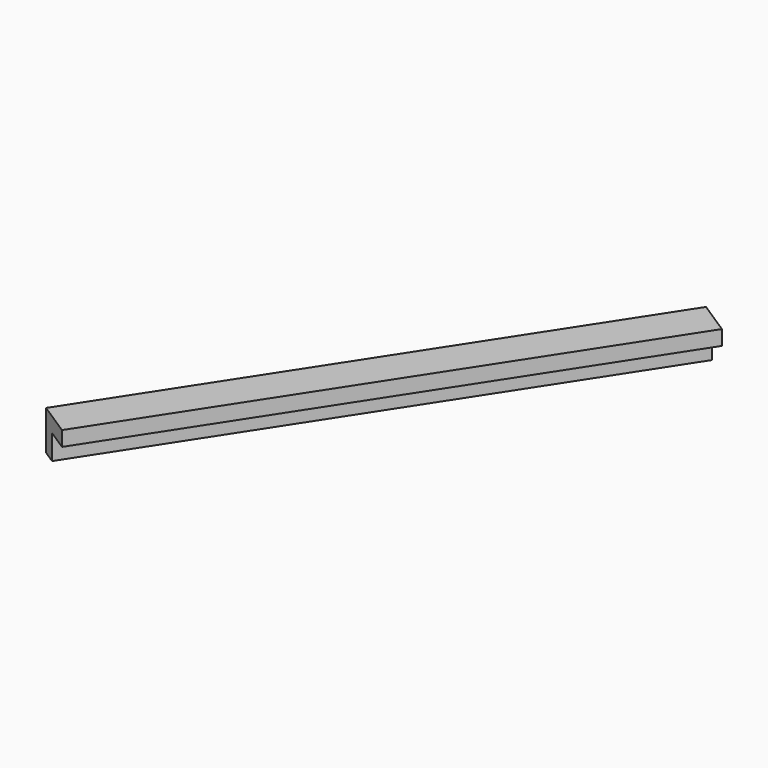
from build123d import *

# Parameters (mm, degrees)
BOX191_W               = 0.8
BOX191_H               = 11
BOX191_DEPTH           = 0.8
BOX192_W               = 0.8
BOX192_H               = 11
BOX192_DEPTH           = 0.8
CUT099_PLACEMENT_ANGLE = 147


with BuildPart() as cubo191:
    # Box191 → Box191 (new body)
    with BuildSketch(Plane.XY):
        with Locations((0.4, 5.5)):
            Rectangle(BOX191_W, BOX191_H)
    extrude(amount=BOX191_DEPTH)


with BuildPart() as obj1:
    # Box192 → Box192 (new body)
    with BuildSketch(Plane(origin=(0.3, 0, 0.3), x_dir=(1, 0, 0), z_dir=(0, 0, 1))):
        with Locations((0.4, 5.5)):
            Rectangle(BOX192_W, BOX192_H)
    extrude(amount=BOX192_DEPTH)

    # Cut099: cut Cubo191
    add(cubo191.part, mode=Mode.SUBTRACT)


with BuildPart() as obj1_1:
    # Cut099 placement: moved
    add(obj1.part.moved(Location((-97.2, 211.5, -1.45))).rotate(Axis((-97.2, 211.5, -1.45), (0, 0, 1)), CUT099_PLACEMENT_ANGLE))


solid = obj1_1.part
